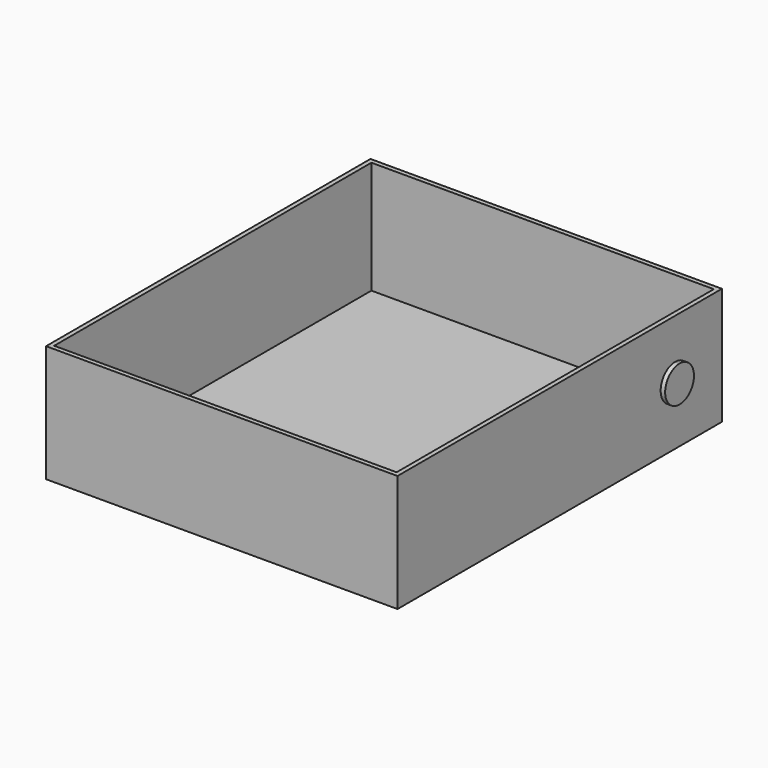
from build123d import *

# Parameters (mm, degrees)
F1_DEPTH = 82.55
F2_T     = -3.175
F5_DEPTH = 3.175
F6_DEPTH = 3.175


with BuildPart() as f1:
    # F0 (on Top) → F1 (new body)
    with BuildSketch(Plane.XY):
        Polygon((-132.221535, 93.801795), (-132.221535, 90.626795), (-132.221535, -188.773205), (-132.221535, -191.948205), (115.428465, -191.948205), (115.428465, -188.773205), (115.428465, 93.801795), (112.253465, 93.801795), align=None)
    extrude(amount=F1_DEPTH)

    # F2
    f2_openings = [f1.faces().sort_by_distance(p)[0] for p in [
        (-8.396535, -49.073205, 82.55),
    ]]
    offset(amount=F2_T, openings=f2_openings)

    # F3 (on face) → F5 (join)
    with BuildSketch(Plane.YZ.offset(115.428465)):
        with BuildLine():
            ThreePointArc((52.526795, 53.975), (43.546539, 32.294744), (65.226795, 41.275))
            ThreePointArc((65.226795, 41.275), (61.507051, 50.255256), (52.526795, 53.975))
        make_face()
    extrude(amount=F5_DEPTH)

    # F4 (on face) → F6 (join)
    with BuildSketch(Plane(origin=(-132.221535, 0, 0), x_dir=(0, -1, 0), z_dir=(-1, 0, 0))):
        with BuildLine():
            ThreePointArc((-52.526795, 53.975), (-61.507051, 50.255256), (-65.226795, 41.275))
            ThreePointArc((-65.226795, 41.275), (-52.526795, 28.575), (-39.826795, 41.275))
            ThreePointArc((-39.826795, 41.275), (-43.546539, 50.255256), (-52.526795, 53.975))
        make_face()
    extrude(amount=F6_DEPTH)


solid = f1.part
